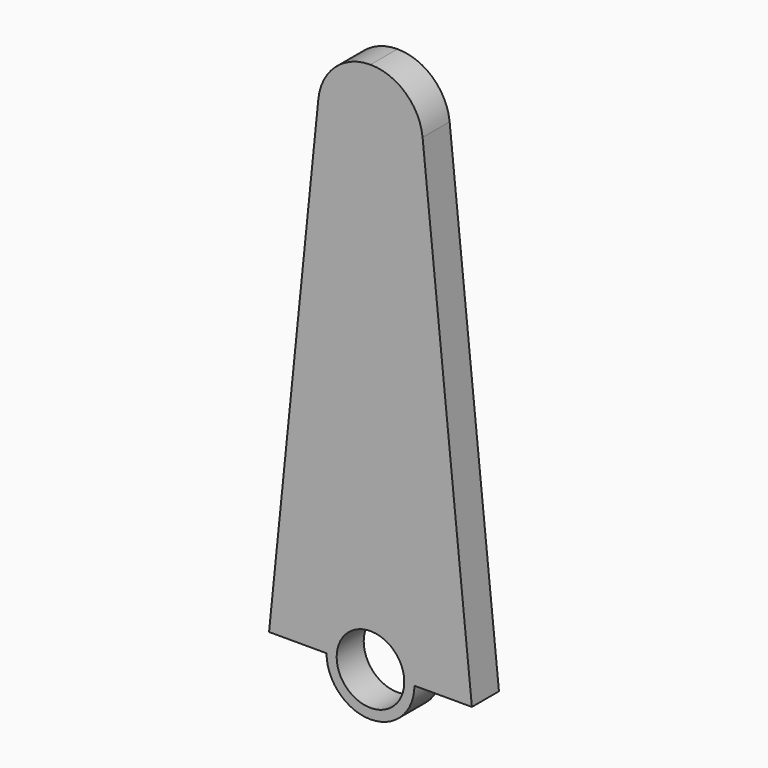
from build123d import *

# Parameters (mm, degrees)
F1_DEPTH = 0.635
F3_DEPTH = 25.4


with BuildPart() as f1:
    # F0 (on Front) → F1 (new body)
    with BuildSketch(Plane.XZ):
        with BuildLine():
            ThreePointArc((-0.8255, 0), (0, 0.8255), (0.8255, 0))
            Line((0.8255, 0), (1.905, 0))
            Line((1.905, 0), (0.9788597992, 9.1155531579))
            ThreePointArc((0.9788597992, 9.1155531579), (0.6596235144, 9.7461380267), (0, 10))
            ThreePointArc((0, 10), (-0.6596235144, 9.7461380267), (-0.9788597992, 9.1155531579))
            Line((-0.9788597992, 9.1155531579), (-1.905, 0))
            Line((-1.905, 0), (-0.8255, 0))
        make_face()
        with BuildLine():
            ThreePointArc((-0.8255, 0), (0, -0.8255), (0.8255, 0))
            Line((0.8255, 0), (-0.8255, 0))
        make_face()
        with BuildLine():
            Line((-0.8255, 0), (0.8255, 0))
            ThreePointArc((0.8255, 0), (0, 0.8255), (-0.8255, 0))
        make_face()
    extrude(amount=F1_DEPTH)

    # F2 (on face) → F3 (cut)
    with BuildSketch(Plane.XZ):
        with BuildLine():
            Line((-0.635, 0), (0.635, 0))
            ThreePointArc((0.635, 0), (0, 0.635), (-0.635, 0))
        make_face()
        with BuildLine():
            ThreePointArc((-0.635, 0), (0, -0.635), (0.635, 0))
            Line((0.635, 0), (-0.635, 0))
        make_face()
    extrude(amount=F3_DEPTH, mode=Mode.SUBTRACT)


solid = f1.part
